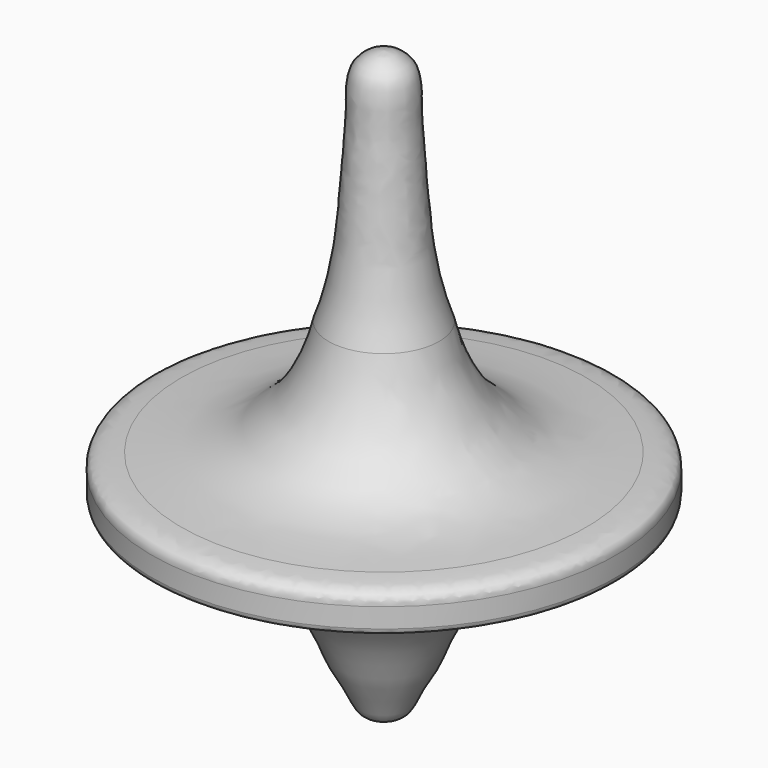
from build123d import *


with BuildPart() as f1:
    # F0 (on Front) → F1 (revolve)
    with BuildSketch(Plane.XZ):
        with BuildLine():
            Line((-37.9954501987, -18.7408737838), (-37.9954501987, 72.7170665001))
            add(Edge.make_bspline(
                [(-37.9954501987, 72.7170665001), (-38.6233518543, 72.6473279632), (-39.8881551697, 72.5045299812), (-41.4979559097, 71.2327213498), (-42.2698312652, 69.9911860807), (-42.6369988786, 67.9424021012), (-42.6271249795, 65.5201635661), (-42.6690695445, 62.7451491089), (-42.9753440582, 59.3338642074), (-43.157897079, 56.1477822069), (-43.4400681934, 53.0323300715), (-43.8320450189, 48.2143087023), (-44.3134624835, 43.8421813478), (-45.6971074126, 38.1519390956), (-46.3372272733, 36.3382127299), (-46.5952530503, 35.6071181595)],
                knots=[0, 0, 0, 0, 0.0614509827, 0.1238049572, 0.1772451278, 0.2405563101, 0.3102815548, 0.3849539072, 0.467891744, 0.5472854669, 0.6264961603, 0.7234996583, 0.8202089406, 0.9275273989, 1, 1, 1, 1], degree=3))
            add(Edge.make_bspline(
                [(-46.5952530503, 35.6071181595), (-46.7889476365, 34.7993836955), (-47.2146212722, 33.0242630132), (-48.5523395946, 29.5126114556), (-50.3152131844, 26.1663695868), (-52.4823998642, 23.5154786789), (-54.175376123, 22.0728813969), (-56.4569883775, 20.1885295854), (-59.6142816382, 18.9308603775), (-63.0797653583, 18.11848949), (-66.5891611948, 17.8293567879), (-68.5697762615, 17.6793695834), (-69.5132613182, 17.6079217345)],
                knots=[0, 0, 0, 0, 0.0905031597, 0.1988946091, 0.3094458291, 0.4117353779, 0.4950458126, 0.5899712776, 0.6932518969, 0.7994031983, 0.9044437821, 1, 1, 1, 1], degree=3))
            add(Edge.make_bspline(
                [(-69.5132613182, 17.6079217345), (-70.0957151301, 17.5693402351), (-71.1642635892, 17.4985600276), (-72.3849913878, 17.2885488967), (-72.9700801422, 17.1117577493), (-73.8161316124, 16.6470425296), (-74.1325521746, 15.8515597682), (-74.131501635, 15.4580605687), (-74.1310268641, 15.2802262455)],
                knots=[0, 0, 0, 0, 0.22580773, 0.4142586022, 0.5494447422, 0.71465593, 0.8710442877, 1, 1, 1, 1], degree=3))
            Line((-74.1310268641, 15.2802262455), (-74.1310268641, 12.2267222032))
            add(Edge.make_bspline(
                [(-74.1310268641, 12.2267222032), (-74.0758593646, 11.9858711205), (-73.9599669158, 11.4799061591), (-73.0562768995, 11.2252658313), (-71.3144411336, 10.8504684961), (-69.55696091, 10.4369953226), (-67.2426446889, 10.3915049168), (-66.1044344028, 10.0045640484), (-64.6258521562, 9.6320754932), (-63.2998159612, 8.9933709588), (-62.6711563029, 8.6422644579), (-62.3856633902, 8.4828166291)],
                knots=[0, 0, 0, 0, 0.0789480111, 0.1658490673, 0.2924147636, 0.4240867475, 0.5666119437, 0.6713885111, 0.7877223773, 0.9035984638, 1, 1, 1, 1], degree=3))
            add(Edge.make_bspline(
                [(-62.3856633902, 8.4828166291), (-61.6618837812, 8.1252443117), (-60.1021444785, 7.3546875915), (-57.1974807292, 6.0841036905), (-53.1928734232, 3.1149427387), (-49.763628084, -1.1850207225), (-46.6018791189, -6.2789855967), (-45.0201109423, -11.1349237635), (-42.5439653128, -14.641055123), (-41.4221816508, -18.1855378996), (-38.955696239, -18.5078439613), (-37.9954501987, -18.7408737838)],
                knots=[0, 0, 0, 0, 0.0860513425, 0.1828608739, 0.3037879552, 0.4329994687, 0.5667141056, 0.6900185911, 0.8032605723, 0.9033776465, 1, 1, 1, 1], degree=3))
        make_face()
    revolve(axis=Axis((-37.9954501987, 0, 27.3595230514), (0, 0, -1)))


solid = f1.part
